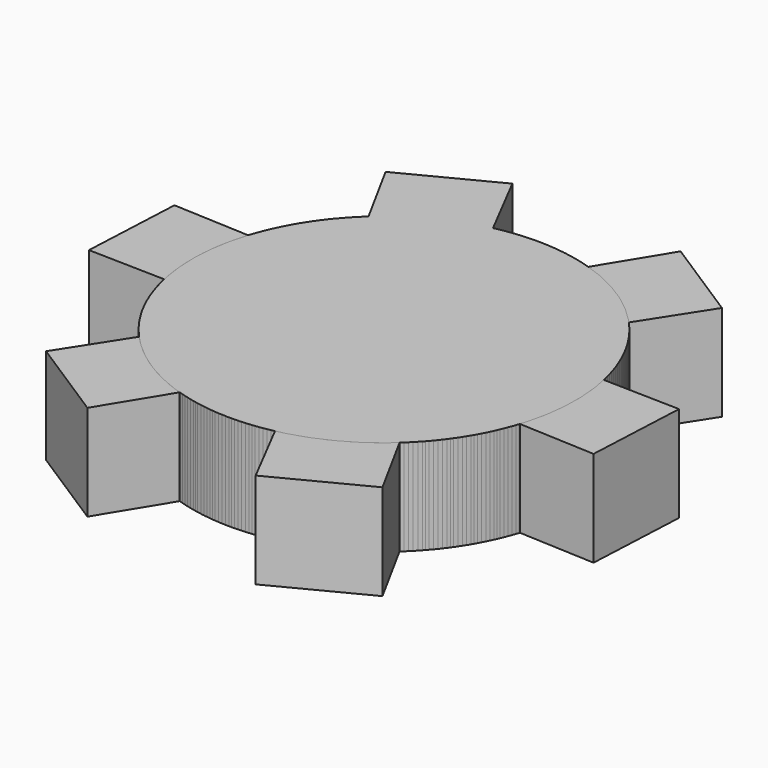
from build123d import *

# Parameters (mm, degrees)
F0_R     = 25.4
F1_DEPTH = 6.35
F3_DEPTH = 12.7
F5_COUNT = 6


with BuildPart() as f1:
    # F0 (on Top) → F1 (new body, symmetric)
    with BuildSketch(Plane.XY):
        Circle(F0_R)
    extrude(amount=F1_DEPTH, both=True)

    # F2 (on face) → F3 (join)
    with BuildSketch(Plane.XY.offset(6.35)):
        Polygon((-24.818294, -5.404841), (0, 0), (-24.506993, 1.161788), align=None)
        Polygon((-24.506993, 1.161788), (0, 0), (-24.195693, 7.728417), align=None)
        Polygon((-24.818294, -5.404841), (-24.506993, 1.161788), (-24.195693, 7.728417), (-34.344296, 8.209526), (-34.978294, -5.164152), align=None)
    extrude(amount=-F3_DEPTH)


with BuildPart() as f5_1:
    # F5: instance of F1
    add(f1.part.rotate(Axis((0, 0, 17.959967), (0, 0, 1)), 1 * 360 / F5_COUNT))


with BuildPart() as f5_2:
    # F5: instance of F1
    add(f1.part.rotate(Axis((0, 0, 17.959967), (0, 0, 1)), 2 * 360 / F5_COUNT))


with BuildPart() as f5_3:
    # F5: instance of F1
    add(f1.part.rotate(Axis((0, 0, 17.959967), (0, 0, 1)), 3 * 360 / F5_COUNT))


with BuildPart() as f5_4:
    # F5: instance of F1
    add(f1.part.rotate(Axis((0, 0, 17.959967), (0, 0, 1)), 4 * 360 / F5_COUNT))


with BuildPart() as f5_5:
    # F5: instance of F1
    add(f1.part.rotate(Axis((0, 0, 17.959967), (0, 0, 1)), 5 * 360 / F5_COUNT))


solid = Compound([f1.part, f5_1.part, f5_2.part, f5_3.part, f5_4.part, f5_5.part])
